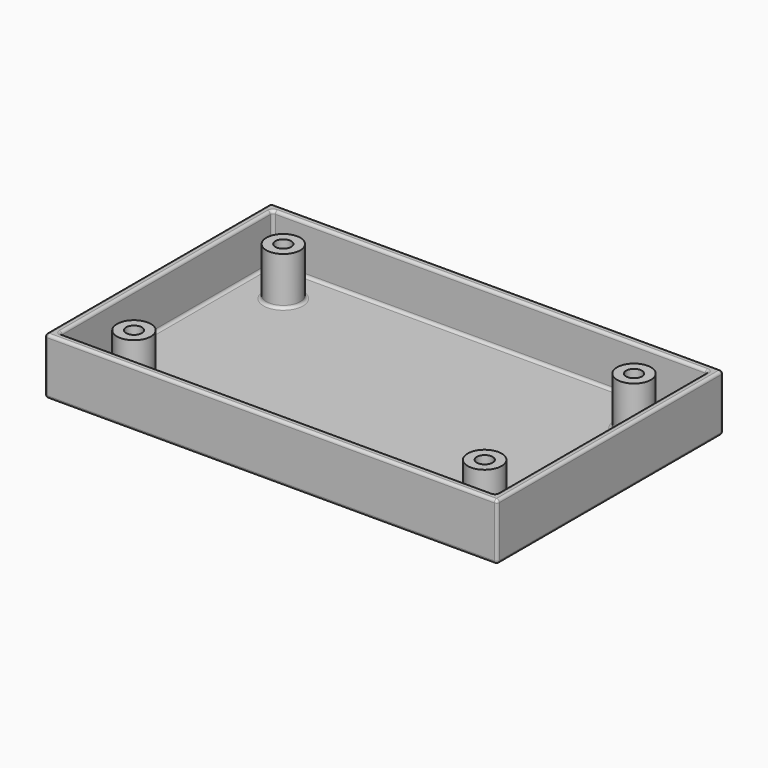
from build123d import *

# Parameters (mm, degrees)
F0_W     = 80
F0_H     = 50
F0_W_2   = 77
F0_H_2   = 47
F0_R     = 3
F1_DEPTH = 1.5
F2_DEPTH = 10
F3_D     = 2.8
F4_R     = 0.5


with BuildPart() as f1:
    # F0 (on Top) → F1 (new body)
    with BuildSketch(Plane.XY):
        with Locations((-12.1877747178, 27.6641865224)):
            Rectangle(F0_W, F0_H)
        with Locations((-12.1877747178, 27.6641865224)):
            Rectangle(F0_W_2, F0_H_2, mode=Mode.SUBTRACT)
        with Locations((-12.1877747178, 27.6641865224)):
            Rectangle(F0_W_2, F0_H_2)
        with Locations((-43.1877747178, 11.1641865224)):
            Circle(F0_R, mode=Mode.SUBTRACT)
        with Locations((18.8122252822, 11.1641865224)):
            Circle(F0_R, mode=Mode.SUBTRACT)
        with Locations((-43.1877747178, 44.1641865224)):
            Circle(F0_R, mode=Mode.SUBTRACT)
        with Locations((18.8122252822, 44.1641865224)):
            Circle(F0_R, mode=Mode.SUBTRACT)
        with Locations((18.8122252822, 11.1641865224)):
            Circle(F0_R)
        with Locations((-43.1877747178, 11.1641865224)):
            Circle(F0_R)
        with Locations((-43.1877747178, 44.1641865224)):
            Circle(F0_R)
        with Locations((18.8122252822, 44.1641865224)):
            Circle(F0_R)
    extrude(amount=F1_DEPTH)

    # F0 (on Top) → F2 (join)
    with BuildSketch(Plane.XY):
        with Locations((-12.1877747178, 27.6641865224)):
            Rectangle(F0_W, F0_H)
        with Locations((-12.1877747178, 27.6641865224)):
            Rectangle(F0_W_2, F0_H_2, mode=Mode.SUBTRACT)
        with Locations((18.8122252822, 11.1641865224)):
            Circle(F0_R)
        with Locations((18.8122252822, 44.1641865224)):
            Circle(F0_R)
        with Locations((-43.1877747178, 44.1641865224)):
            Circle(F0_R)
        with Locations((-43.1877747178, 11.1641865224)):
            Circle(F0_R)
    extrude(amount=F2_DEPTH)

    # F3 (through all)
    with Locations(Plane(origin=(0, 0, 0), x_dir=(1, 0, 0), z_dir=(0, 0, -1))):
        with Locations((18.8122252822, -11.1641865224), (-43.1877747178, -11.1641865224), (-43.1877747178, -44.1641865224), (18.8122252822, -44.1641865224)):
            Hole(F3_D / 2)

    # F4
    f4_edges = [f1.edges().sort_by_distance(p)[0] for p in [
        (-12.187775, 51.164187, 1.5),
        (26.312225, 27.664187, 1.5),
        (-12.187775, 4.164187, 1.5),
        (-50.687775, 27.664187, 1.5),
        (-46.187775, 11.164187, 1.5),
        (15.812225, 11.164187, 1.5),
        (-46.187775, 44.164187, 1.5),
        (15.812225, 44.164187, 1.5),
        (-12.187775, 52.664187, 0),
        (27.812225, 27.664187, 0),
        (-52.187775, 27.664187, 0),
        (-12.187775, 2.664187, 0),
        (-44.587775, 11.164187, 0),
        (17.412225, 11.164187, 0),
        (-44.587775, 44.164187, 0),
        (17.412225, 44.164187, 0),
        (-52.187775, 2.664187, 5),
        (-12.187775, 2.664187, 10),
        (-52.187775, 52.664187, 5),
        (-52.187775, 27.664187, 10),
        (27.812225, 2.664187, 5),
        (27.812225, 27.664187, 10),
        (27.812225, 52.664187, 5),
        (-12.187775, 52.664187, 10),
        (26.312225, 4.164187, 5.75),
        (26.312225, 27.664187, 10),
        (26.312225, 51.164187, 5.75),
        (-12.187775, 51.164187, 10),
        (-50.687775, 51.164187, 5.75),
        (-50.687775, 27.664187, 10),
        (-50.687775, 4.164187, 5.75),
        (-12.187775, 4.164187, 10),
    ]]
    fillet(f4_edges, radius=F4_R)


solid = f1.part
